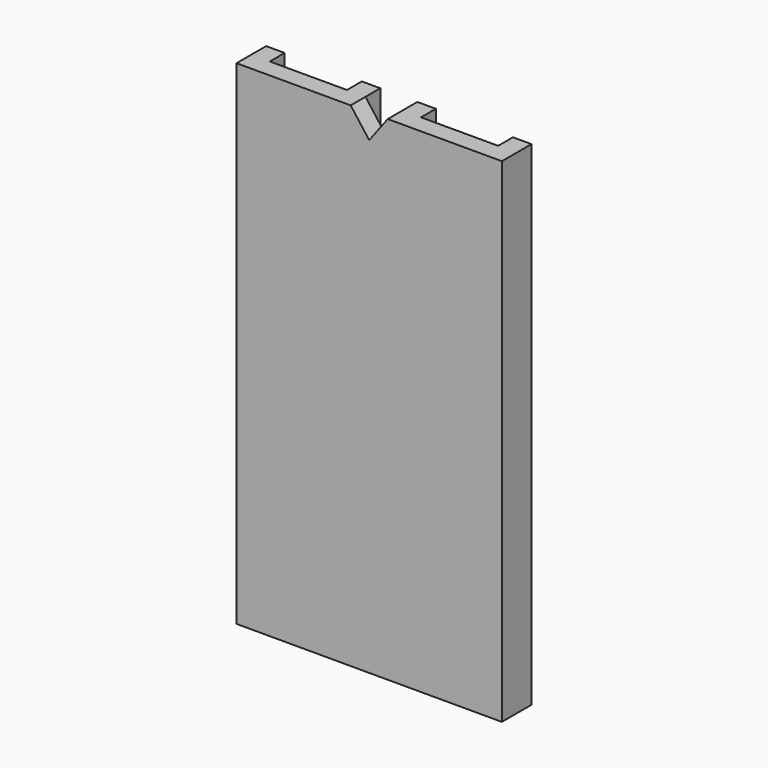
from build123d import *

# Parameters (mm, degrees)
F0_W     = 15.875
F0_H     = 101.6
F0_W_2   = 3.81
F1_DEPTH = 3.81
F2_DEPTH = 3.81


with BuildPart() as f1:
    # F0 (on Front) → F1 (new body)
    with BuildSketch(Plane.XZ):
        with Locations((-68.512963, -50.470196)):
            Rectangle(F0_W, F0_H)
        with Locations((-37.397963, -50.470196)):
            Rectangle(F0_W, F0_H)
        with Locations((-58.670463, -50.470196)):
            Rectangle(F0_W_2, F0_H)
        with Locations((-47.240463, -50.470196)):
            Rectangle(F0_W_2, F0_H)
        with Locations((-27.555463, -50.470196)):
            Rectangle(F0_W_2, F0_H)
        with Locations((-78.355463, -50.470196)):
            Rectangle(F0_W_2, F0_H)
        Polygon((-52.955463, -4.750196), (-56.765463, 0.329804), (-56.765463, -101.270196), (-49.145463, -101.270196), (-49.145463, 0.329804), align=None)
    extrude(amount=F1_DEPTH)

    # F0 (on Front) → F2 (join)
    with BuildSketch(Plane.XZ):
        with Locations((-58.670463, -50.470196)):
            Rectangle(F0_W_2, F0_H)
        with Locations((-47.240463, -50.470196)):
            Rectangle(F0_W_2, F0_H)
        with Locations((-27.555463, -50.470196)):
            Rectangle(F0_W_2, F0_H)
        with Locations((-78.355463, -50.470196)):
            Rectangle(F0_W_2, F0_H)
    extrude(amount=-F2_DEPTH)


solid = f1.part
